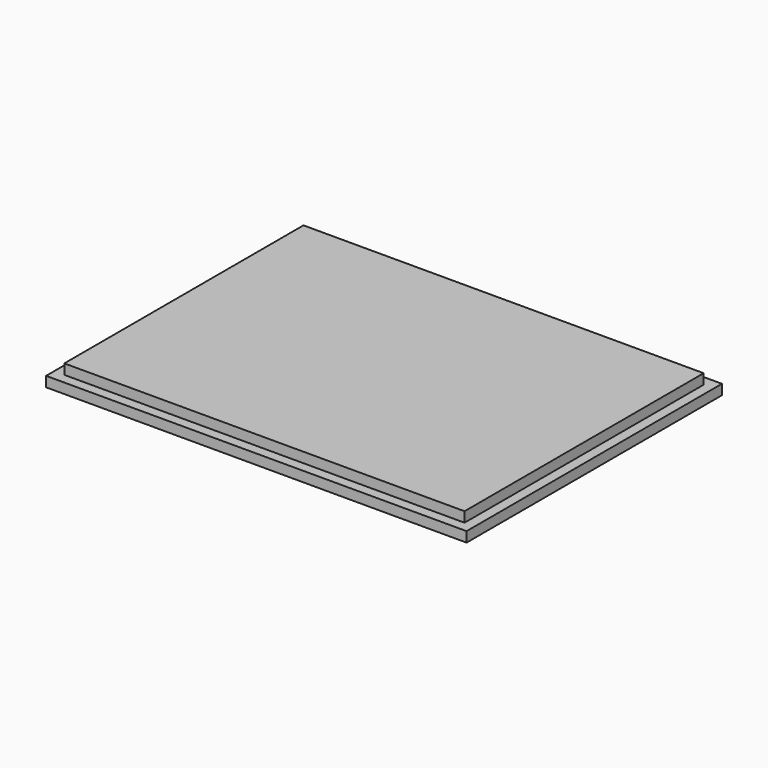
from build123d import *

# Parameters (mm, degrees)
F0_W     = 79
F0_H     = 59
F0_W_2   = 75
F0_H_2   = 55
F1_DEPTH = 4
F0_W_3   = 83
F0_H_3   = 63
F2_DEPTH = 2


with BuildPart() as f1:
    # F0 (on Top) → F1 (new body)
    with BuildSketch(Plane.XY):
        with Locations((1.25, 1)):
            Rectangle(F0_W, F0_H)
        with Locations((1.25, 1)):
            Rectangle(F0_W_2, F0_H_2, mode=Mode.SUBTRACT)
        with Locations((1.25, 1)):
            Rectangle(F0_W_2, F0_H_2)
    extrude(amount=F1_DEPTH)

    # F0 (on Top) → F2 (join)
    with BuildSketch(Plane.XY):
        with Locations((1.25, 1)):
            Rectangle(F0_W_3, F0_H_3)
        with Locations((1.25, 1)):
            Rectangle(F0_W, F0_H, mode=Mode.SUBTRACT)
    extrude(amount=F2_DEPTH)


solid = f1.part
